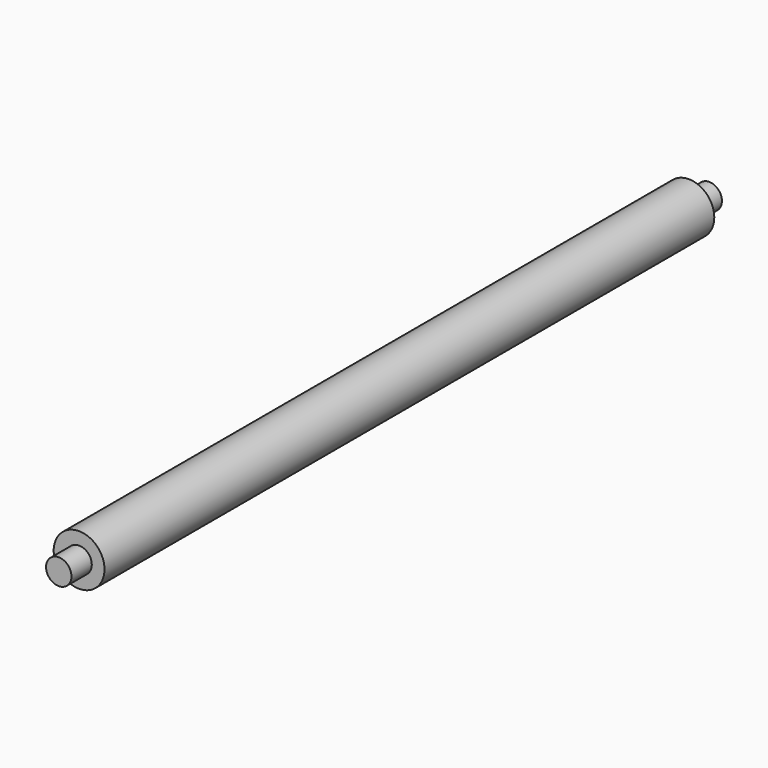
from build123d import *

# Parameters (mm, degrees)
F0_R     = 5
F1_DEPTH = 150
F2_R     = 2.5
F3_DEPTH = 5
F4_R     = 2.5
F5_DEPTH = 155


with BuildPart() as f1:
    # F0 (on Front) → F1 (new body)
    with BuildSketch(Plane.XZ):
        Circle(F0_R)
    extrude(amount=F1_DEPTH)

    # F2 (on Front) → F3 (join)
    with BuildSketch(Plane.XZ):
        Circle(F2_R)
    extrude(amount=-F3_DEPTH)

    # F4 (on Front) → F5 (join)
    with BuildSketch(Plane.XZ):
        Circle(F4_R)
    extrude(amount=F5_DEPTH)


solid = f1.part
